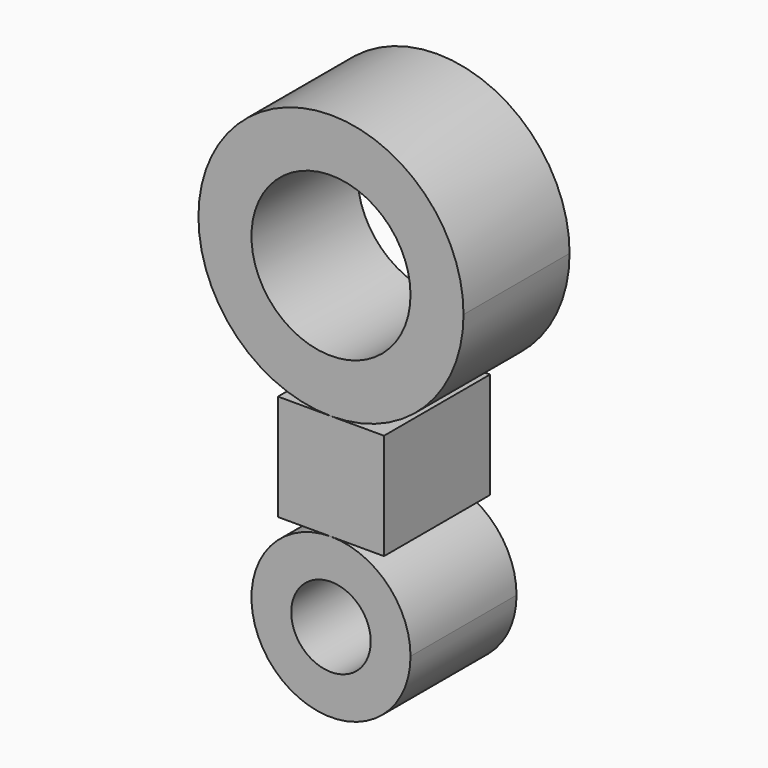
from build123d import *

# Parameters (mm, degrees)
F0_R     = 1.905
F0_R_2   = 3.81
F1_DEPTH = 6.35


with BuildPart() as f1:
    # F0 (on Front) → F1 (new body)
    with BuildSketch(Plane.XZ):
        with BuildLine():
            ThreePointArc((0, -5.08), (-2.694077, -11.584077), (3.81, -8.89))
            ThreePointArc((3.81, -8.89), (2.694077, -6.195923), (0, -5.08))
        make_face()
        with Locations((0, -8.89)):
            Circle(F0_R, mode=Mode.SUBTRACT)
        Polygon((-2.54, -5.08), (0, -5.08), (2.54, -5.08), (2.54, 0), (0, 0), (-2.54, 0), align=None)
        with BuildLine():
            ThreePointArc((6.35, 6.35), (-4.490128, 10.840128), (0, 0))
            ThreePointArc((0, 0), (4.490128, 1.859872), (6.35, 6.35))
        make_face()
        with Locations((0, 6.35)):
            Circle(F0_R_2, mode=Mode.SUBTRACT)
    extrude(amount=F1_DEPTH)


solid = f1.part
